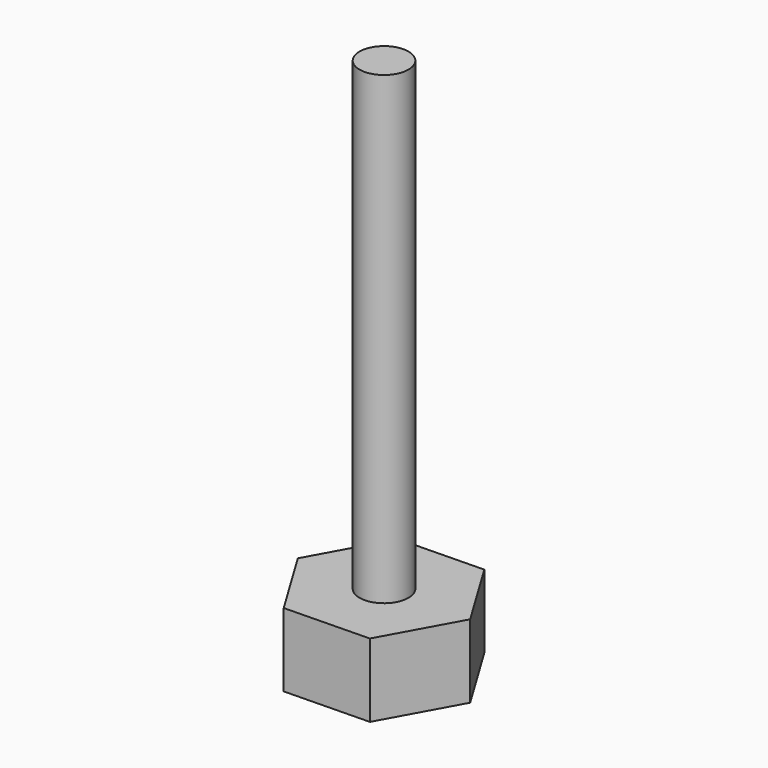
from build123d import *

# Parameters (mm, degrees)
F0_R     = 1.5875
F1_DEPTH = 4.7625
F2_R     = 1.5875
F3_DEPTH = 34.925


with BuildPart() as f1:
    # F0 (on Top) → F1 (new body)
    with BuildSketch(Plane.XY):
        Polygon((2.84788, -4.704408), (5.498077, 0.114132), (2.650197, 4.81854), (-2.84788, 4.704408), (-5.498077, -0.114132), (-2.650197, -4.81854), align=None)
        Circle(F0_R, mode=Mode.SUBTRACT)
    extrude(amount=F1_DEPTH)


with BuildPart() as f3:
    # F2 (on Top) → F3 (new body)
    with BuildSketch(Plane.XY):
        Circle(F2_R)
    extrude(amount=F3_DEPTH)


solid = Compound([f1.part, f3.part])
